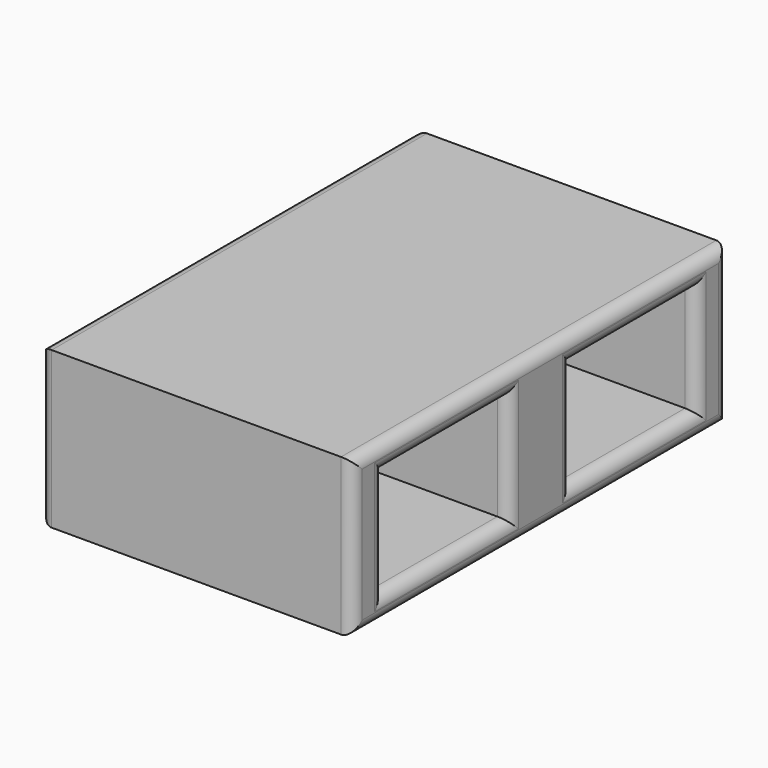
from build123d import *

# Parameters (mm, degrees)
F0_W     = 203.2
F0_H     = 101.6
F1_DEPTH = 304.8
F2_W     = 101.6
F2_H     = 69.85
F3_DEPTH = 203.201
F4_R     = 7.62


with BuildPart() as f1:
    # F0 (on Front) → F1 (new body)
    with BuildSketch(Plane.XZ):
        Rectangle(F0_W, F0_H)
    extrude(amount=F1_DEPTH)

    # F2 (on face) → F3 (cut, through all)
    with BuildSketch(Plane.YZ.offset(101.6)):
        with Locations((-228.6, 0)):
            Rectangle(F2_W, F2_H)
        with Locations((-76.2, 0)):
            Rectangle(F2_W, F2_H)
    extrude(amount=-F3_DEPTH, mode=Mode.SUBTRACT)

    # F4
    f4_edges = [f1.edges().sort_by_distance(p)[0] for p in [
        (-101.6, -152.4, 50.8),
        (-101.6, 0, 0),
        (-101.6, -304.8, 0),
        (-101.6, -152.4, -50.8),
        (-101.6, -177.8, 0),
        (-101.6, -228.6, 34.925),
        (-101.6, -279.4, 0),
        (-101.6, -228.6, -34.925),
        (-101.6, -25.4, 0),
        (-101.6, -76.2, 34.925),
        (-101.6, -127, 0),
        (-101.6, -76.2, -34.925),
        (101.6, -152.4, -50.8),
        (101.6, 0, 0),
        (101.6, -304.8, 0),
        (101.6, -152.4, 50.8),
        (101.6, -228.6, -34.925),
        (101.6, -279.4, 0),
        (101.6, -228.6, 34.925),
        (101.6, -177.8, 0),
        (101.6, -76.2, -34.925),
        (101.6, -127, 0),
        (101.6, -76.2, 34.925),
        (101.6, -25.4, 0),
    ]]
    fillet(f4_edges, radius=F4_R)


solid = f1.part
